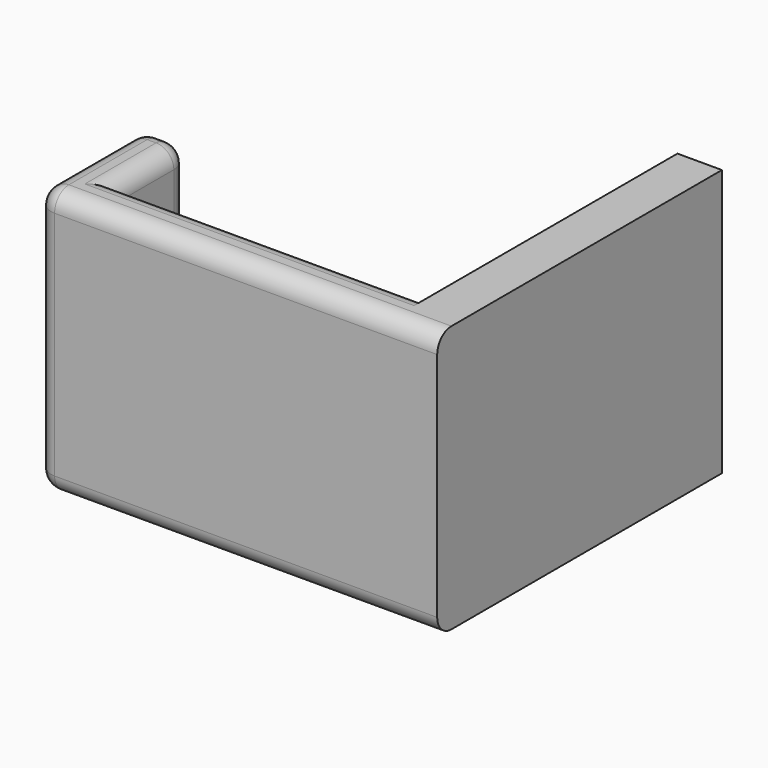
from build123d import *

# Parameters (mm, degrees)
PAD_DEPTH   = 30
FILLET_R    = 2
FILLET001_R = 2
FILLET002_R = 2
FILLET003_R = 2
FILLET004_R = 2
FILLET005_R = 2
FILLET006_R = 2


with BuildPart() as part:
    # Sketch → Pad (new body)
    with BuildSketch(Plane.XY):
        Polygon((45, 40), (45, 0), (0, 0), (0, 15), (5, 15), (5, 5), (40, 5), (40, 40), align=None)
    extrude(amount=PAD_DEPTH)

    # Fillet
    fillet_edges = [part.edges().sort_by_distance(p)[0] for p in [
        (0, 15, 15),
    ]]
    fillet(fillet_edges, radius=FILLET_R)

    # Fillet001
    fillet001_edges = [part.edges().sort_by_distance(p)[0] for p in [
        (5, 15, 15),
    ]]
    fillet(fillet001_edges, radius=FILLET001_R)

    # Fillet002
    fillet002_edges = [part.edges().sort_by_distance(p)[0] for p in [
        (0, 0, 15),
    ]]
    fillet(fillet002_edges, radius=FILLET002_R)

    # Fillet003
    fillet003_edges = [part.edges().sort_by_distance(p)[0] for p in [
        (22.5, 5, 30),
    ]]
    fillet(fillet003_edges, radius=FILLET003_R)

    # Fillet004
    fillet004_edges = [part.edges().sort_by_distance(p)[0] for p in [
        (22.5, 5, 0),
    ]]
    fillet(fillet004_edges, radius=FILLET004_R)

    # Fillet005
    fillet005_edges = [part.edges().sort_by_distance(p)[0] for p in [
        (5, 9, 30),
    ]]
    fillet(fillet005_edges, radius=FILLET005_R)

    # Fillet006
    fillet006_edges = [part.edges().sort_by_distance(p)[0] for p in [
        (0, 7.5, 0),
    ]]
    fillet(fillet006_edges, radius=FILLET006_R)


solid = part.part
